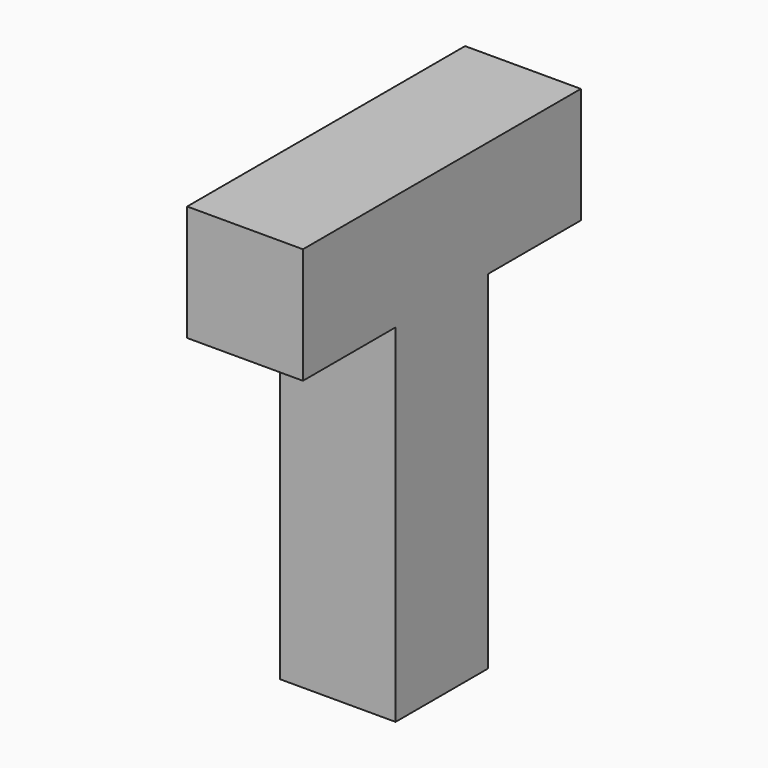
from build123d import *

# Parameters (mm, degrees)
BOX079_W     = 1
BOX079_H     = 1
BOX079_DEPTH = 3
BOX081_W     = 1
BOX081_H     = 3
BOX081_DEPTH = 1


with BuildPart() as box079:
    # Box079 → Box079 (new body)
    with BuildSketch(Plane(origin=(44, 12, 3), x_dir=(1, 0, 0), z_dir=(0, 0, 1))):
        with Locations((0.5, 0.5)):
            Rectangle(BOX079_W, BOX079_H)
    extrude(amount=BOX079_DEPTH)


with BuildPart() as fusion036:
    # Box081 → Box081 (new body)
    with BuildSketch(Plane(origin=(44, 11, 6), x_dir=(1, 0, 0), z_dir=(0, 0, 1))):
        with Locations((0.5, 1.5)):
            Rectangle(BOX081_W, BOX081_H)
    extrude(amount=BOX081_DEPTH)

    # Fusion036: union Box079
    add(box079.part)


solid = fusion036.part
